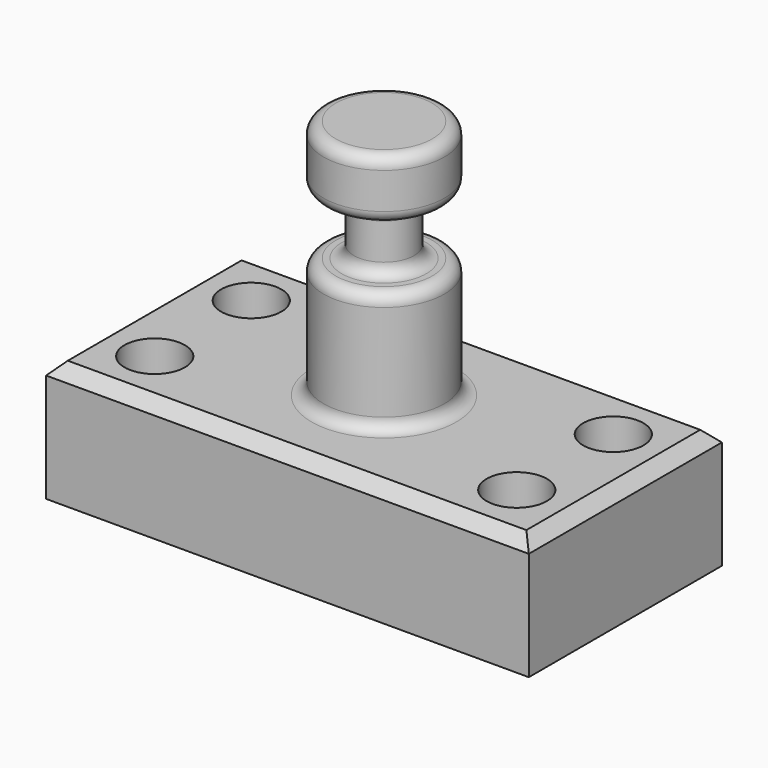
from build123d import *

# Parameters (mm, degrees)
F0_W     = 101.6
F0_H     = 50.8
F1_DEPTH = 25.4
F2_R     = 6.35
F3_DEPTH = 25.401
F4_W     = 12.7
F4_H     = 50.8
F6_W     = 11.5008536689
F6_H     = 12.7
F8_R     = 2.54
F9_SIZE  = 2.54


with BuildPart() as f1:
    # F0 (on Top) → F1 (new body)
    with BuildSketch(Plane.XY):
        Rectangle(F0_W, F0_H)
    extrude(amount=F1_DEPTH)

    # F2 (on face) → F3 (cut, through all)
    with BuildSketch(Plane.XY.offset(25.4)):
        with Locations((-38.1, 12.7)):
            Circle(F2_R)
        with Locations((38.1, 12.7)):
            Circle(F2_R)
        with Locations((-38.1, -12.7)):
            Circle(F2_R)
        with Locations((38.1, -12.7)):
            Circle(F2_R)
    extrude(amount=-F3_DEPTH, mode=Mode.SUBTRACT)

    # F4 (on Front) → F5 (revolve)
    with BuildSketch(Plane.XZ):
        with Locations((-6.35, 50.8)):
            Rectangle(F4_W, F4_H)
    revolve(axis=Axis((0, 0, 50.8), (0, 0, 1)))

    # F6 (on Front) → F7 (revolve, cut)
    with BuildSketch(Plane.XZ):
        with Locations((-12.1004268345, 57.15)):
            Rectangle(F6_W, F6_H)
    revolve(axis=Axis((0, 0, 43.2208366692), (0, 0, 1)), mode=Mode.SUBTRACT)

    # F8
    f8_edges = [f1.edges().sort_by_distance(p)[0] for p in [
        (12.7, 0, 50.8),
        (12.7, 0, 25.4),
        (12.7, 0, 63.5),
        (12.7, 0, 76.2),
        (6.35, 0, 63.5),
        (6.35, 0, 50.8),
    ]]
    fillet(f8_edges, radius=F8_R)

    # F9
    f9_edges = [f1.edges().sort_by_distance(p)[0] for p in [
        (0, -25.4, 25.4),
        (50.8, 0, 25.4),
        (0, 25.4, 25.4),
        (-50.8, 0, 25.4),
    ]]
    chamfer(f9_edges, length=F9_SIZE)


solid = f1.part
